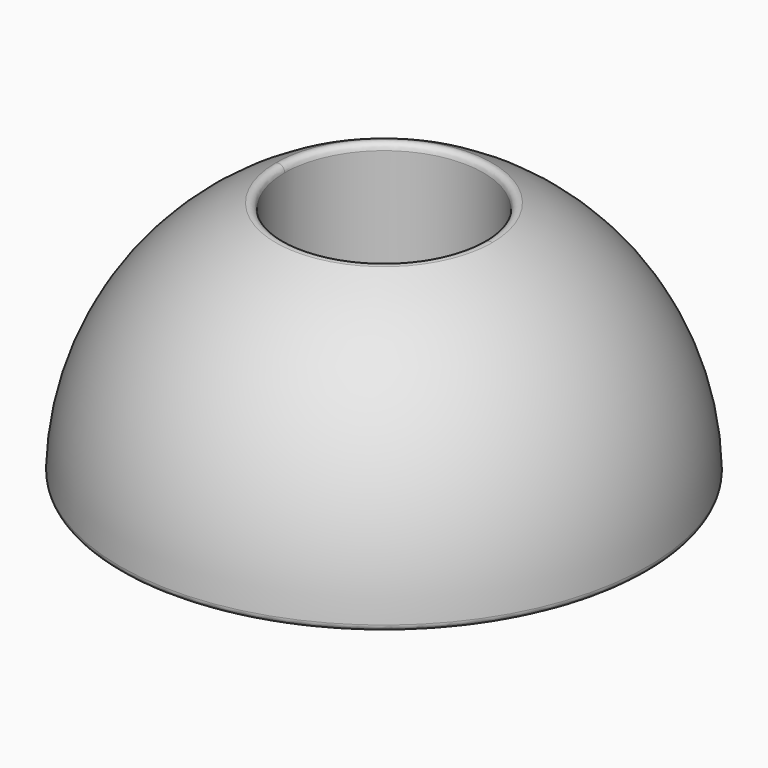
from build123d import *

# Parameters (mm, degrees)
F3_R     = 7.9
F4_DEPTH = 21.001
F5_R     = 0.5


with BuildPart() as f2:
    # F1 (on Front) → F2 (revolve)
    with BuildSketch(Plane.XZ):
        with BuildLine():
            ThreePointArc((0, 21), (-14.8492424049, 14.8492424049), (-21, 0))
            Line((-21, 0), (0, 0))
            Line((0, 0), (0, 21))
        make_face()
    revolve(axis=Axis((0, 0, 10.5), (0, 0, 1)))

    # F3 (on Top) → F4 (cut, through all)
    with BuildSketch(Plane.XY):
        Circle(F3_R)
    extrude(amount=F4_DEPTH, mode=Mode.SUBTRACT)

    # F5
    f5_edges = [f2.edges().sort_by_distance(p)[0] for p in [
        (21, 0, 0),
        (-7.9, 0, 0),
        (0, 7.9, 19.457389),
        (0, -7.9, 19.457389),
    ]]
    fillet(f5_edges, radius=F5_R)


solid = f2.part
